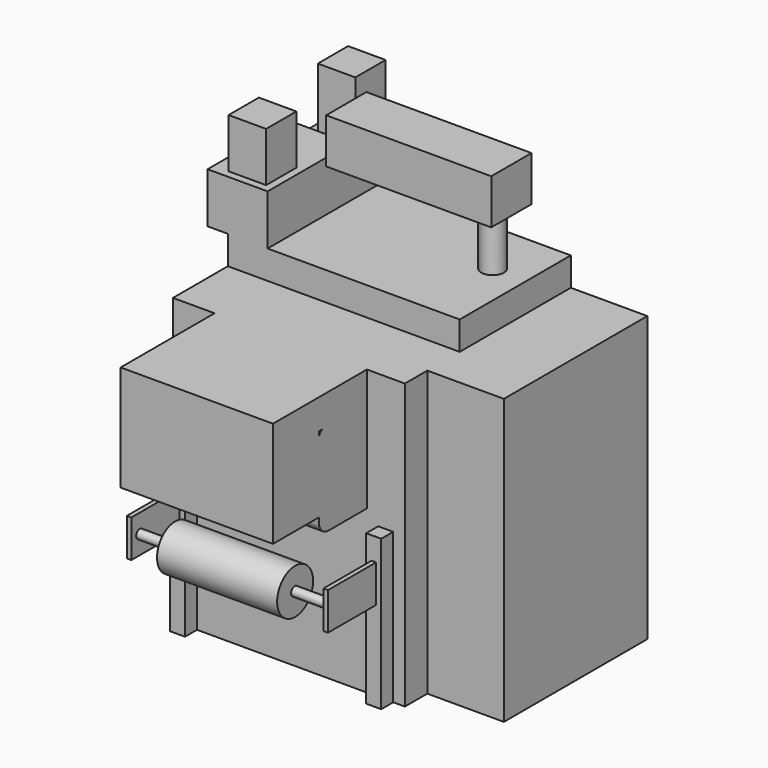
from build123d import *

# Parameters (mm, degrees)
F0_W      = 597.5
F0_H      = 1895
F1_DEPTH  = 510
F2_W      = 1382
F2_H      = 1895
F3_DEPTH  = 1545
F4_W      = 1015
F4_H      = 615
F5_DEPTH  = 400
F6_R      = 40
F7_R      = 80
F9_DEPTH  = 1015
F10_W     = 1545
F10_H     = 925
F11_DEPTH = 190
F12_R     = 75
F13_DEPTH = 350
F14_W     = 1100
F14_H     = 335
F15_DEPTH = 300
F16_W     = 400
F16_H     = 1095
F17_DEPTH = 335
F18_W     = 402
F18_H     = 105
F19_DEPTH = 400
F20_W     = 250
F20_H     = 252
F21_DEPTH = 435
F22_W     = 250
F22_H     = 252
F23_DEPTH = 330
F24_W     = 100
F24_H     = 1000
F25_DEPTH = 100
F26_W     = 100
F26_H     = 1000
F27_DEPTH = 100
F28_W     = 30
F28_H     = 250
F29_DEPTH = 400
F30_R     = 30
F31_DEPTH = 1310
F33_R     = 150
F34_DEPTH = 400


with BuildPart() as f1:
    # F0 (on Right) → F1 (new body)
    with BuildSketch(Plane.YZ):
        with Locations((298.75, 0)):
            Rectangle(F0_W, F0_H)
        with Locations((-298.75, 0)):
            Rectangle(F0_W, F0_H)
    extrude(amount=-F1_DEPTH)

    # F2 (on face) → F3 (join)
    with BuildSketch(Plane(origin=(-510, 0, 0), x_dir=(0, -1, 0), z_dir=(-1, 0, 0))):
        with Locations((93.5, 0)):
            Rectangle(F2_W, F2_H)
    extrude(amount=F3_DEPTH)

    # F4 (on face) → F5 (join)
    with BuildSketch(Plane.XZ.offset(784.5)):
        with Locations((-1270.5, 440)):
            Rectangle(F4_W, F4_H)
    extrude(amount=F5_DEPTH)

    # F6
    f6_edges = [f1.edges().sort_by_distance(p)[0] for p in [
        (-1270.5, -1184.5, 747.5),
    ]]
    fillet(f6_edges, radius=F6_R)

    # F7
    f7_edges = [f1.edges().sort_by_distance(p)[0] for p in [
        (-1270.5, -1184.5, 132.5),
    ]]
    fillet(f7_edges, radius=F7_R)

    # F8 (on face) → F9 (join)
    with BuildSketch(Plane.YZ.offset(-763)):
        Polygon((-1184.5, 747.5), (-784.5, 747.5), (-784.5, 947.5), (-1566.5, 947.5), (-1566.5, 242.5), (-1184.5, 242.5), align=None)
    extrude(amount=-F9_DEPTH)

    # F10 (on face) → F11 (join)
    with BuildSketch(Plane.XY.offset(947.5)):
        with Locations((-1282.5, 135)):
            Rectangle(F10_W, F10_H)
    extrude(amount=F11_DEPTH)

    # F12 (on face) → F13 (join)
    with BuildSketch(Plane.XY.offset(1137.5)):
        with Locations((-735, 227.5)):
            Circle(F12_R)
    extrude(amount=F13_DEPTH)

    # F14 (on face) → F15 (join)
    with BuildSketch(Plane.XY.offset(1487.5)):
        with Locations((-1160, 227.5)):
            Rectangle(F14_W, F14_H)
    extrude(amount=F15_DEPTH)

    # F16 (on face) → F17 (join)
    with BuildSketch(Plane.XY.offset(1137.5)):
        with Locations((-1990, 220)):
            Rectangle(F16_W, F16_H)
    extrude(amount=F17_DEPTH)

    # F18 (on face) → F19 (cut, through all)
    with BuildSketch(Plane(origin=(-2190, 0, 0), x_dir=(0, -1, 0), z_dir=(-1, 0, 0))):
        with Locations((-566.5, 1420)):
            Rectangle(F18_W, F18_H)
    extrude(amount=-F19_DEPTH, mode=Mode.SUBTRACT)

    # F20 (on face) → F21 (join)
    with BuildSketch(Plane.XY.offset(1367.5)):
        with Locations((-1965, 591.5)):
            Rectangle(F20_W, F20_H)
    extrude(amount=F21_DEPTH)

    # F22 (on face) → F23 (join)
    with BuildSketch(Plane.XY.offset(1472.5)):
        with Locations((-1965, -151.5)):
            Rectangle(F22_W, F22_H)
    extrude(amount=F23_DEPTH)

    # F24 (on face) → F25 (join)
    with BuildSketch(Plane.XZ.offset(784.5)):
        with Locations((-637.535286, -447.5)):
            Rectangle(F24_W, F24_H)
    extrude(amount=F25_DEPTH)

    # F26 (on face) → F27 (join)
    with BuildSketch(Plane.XZ.offset(784.5)):
        with Locations((-1944.85898, -447.5)):
            Rectangle(F26_W, F26_H)
    extrude(amount=F27_DEPTH)

    # F28 (on face) → F29 (join)
    with BuildSketch(Plane.XZ.offset(884.5)):
        with Locations((-637.358516, -222.5)):
            Rectangle(F28_W, F28_H)
        with Locations((-1947.358516, -222.5)):
            Rectangle(F28_W, F28_H)
    extrude(amount=F29_DEPTH)

    # F30 (on face) → F31 (join, through all)
    with BuildSketch(Plane.YZ.offset(-622.358516)):
        with Locations((-1214.5, -222.5)):
            Circle(F30_R)
    extrude(amount=-F31_DEPTH)

    # F33 (on offset) → F34 (join, symmetric)
    with BuildSketch(Plane.YZ.offset(-1300)):
        with Locations((-1211.049914, -225.003153)):
            Circle(F33_R)
    extrude(amount=F34_DEPTH, both=True)


solid = f1.part
